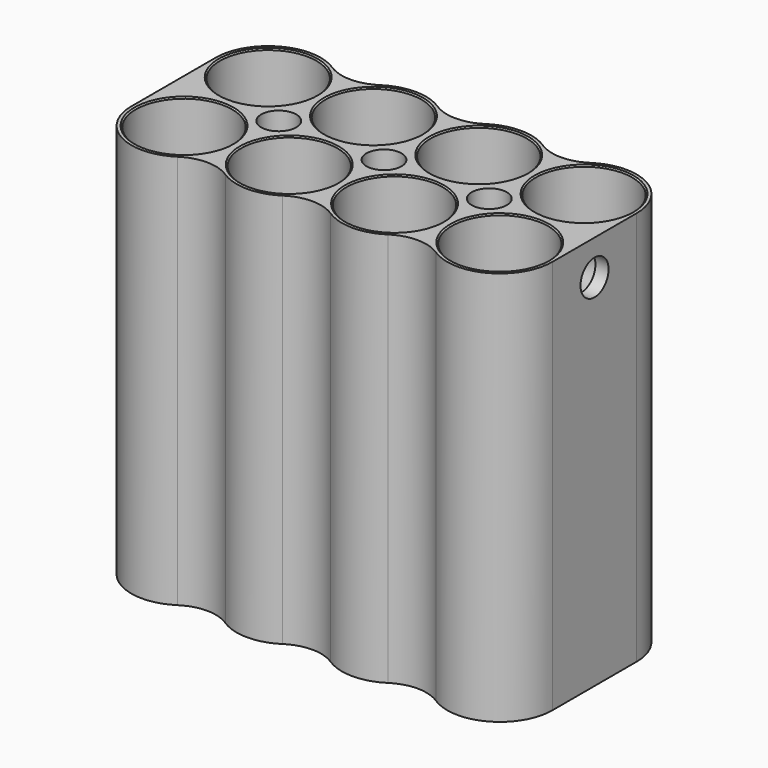
from build123d import *

# Parameters (mm, degrees)
F0_R           = 5.5
F0_R_2         = 2
F1_DEPTH       = 43
F3_SIZE        = 0.15
F2_R           = 2.25
F2_R_2         = 2
F5_DEPTH       = 2
F6_R           = 5
F8_D           = 4
F8_DEPTH       = 1.5
F8_TIP         = 1.2017212381
F8_ON_F4_D     = 4
F8_ON_F4_DEPTH = 1.5
F8_ON_F4_TIP   = 1.2017212381


with BuildPart() as f1:
    # F0 (on Top) → F1 (new body)
    with BuildSketch(Plane.XY):
        with BuildLine():
            ThreePointArc((0, 6), (-6, 12), (-12, 6))
            ThreePointArc((-12, 6), (-18, 12), (-24, 6))
            Line((-24, 6), (-24, -6))
            ThreePointArc((-24, -6), (-18, -12), (-12, -6))
            ThreePointArc((-12, -6), (-6, -12), (0, -6))
            ThreePointArc((0, -6), (6, -12), (12, -6))
            ThreePointArc((12, -6), (18, -12), (24, -6))
            Line((24, -6), (24, 6))
            ThreePointArc((24, 6), (18, 12), (12, 6))
            ThreePointArc((12, 6), (6, 12), (0, 6))
        make_face()
        with Locations((-18, -6)):
            Circle(F0_R, mode=Mode.SUBTRACT)
        with Locations((-6, -6)):
            Circle(F0_R, mode=Mode.SUBTRACT)
        with Locations((6, -6)):
            Circle(F0_R, mode=Mode.SUBTRACT)
        with Locations((18, -6)):
            Circle(F0_R, mode=Mode.SUBTRACT)
        with Locations((-12, 0)):
            Circle(F0_R_2, mode=Mode.SUBTRACT)
        with Locations((-18, 6)):
            Circle(F0_R, mode=Mode.SUBTRACT)
        with Locations((-6, 6)):
            Circle(F0_R, mode=Mode.SUBTRACT)
        Circle(F0_R_2, mode=Mode.SUBTRACT)
        with Locations((12, 0)):
            Circle(F0_R_2, mode=Mode.SUBTRACT)
        with Locations((6, 6)):
            Circle(F0_R, mode=Mode.SUBTRACT)
        with Locations((18, 6)):
            Circle(F0_R, mode=Mode.SUBTRACT)
    extrude(amount=F1_DEPTH)

    # F3
    f3_edges = [f1.edges().sort_by_distance(p)[0] for p in [
        (-23.5, 6, 43),
        (-11.5, 6, 43),
        (0.5, 6, 43),
        (12.5, 6, 43),
        (12.5, -6, 43),
        (0.5, -6, 43),
        (-11.5, -6, 43),
        (-23.5, -6, 43),
    ]]
    chamfer(f3_edges, length=F3_SIZE)

    # F2 (on face) → F5 (join)
    with BuildSketch(Plane(origin=(0, 0, 0), x_dir=(1, 0, 0), z_dir=(0, 0, -1))):
        with BuildLine():
            ThreePointArc((12, 6), (6, 12), (0, 6))
            ThreePointArc((0, 6), (-6, 12), (-12, 6))
            ThreePointArc((-12, 6), (-18, 12), (-24, 6))
            Line((-24, 6), (-24, -6))
            ThreePointArc((-24, -6), (-18, -12), (-12, -6))
            ThreePointArc((-12, -6), (-6, -12), (0, -6))
            ThreePointArc((0, -6), (6, -12), (12, -6))
            ThreePointArc((12, -6), (18, -12), (24, -6))
            Line((24, -6), (24, 6))
            ThreePointArc((24, 6), (18, 12), (12, 6))
        make_face()
        with Locations((-18, -6)):
            Circle(F2_R, mode=Mode.SUBTRACT)
        with Locations((-6, -6)):
            Circle(F2_R, mode=Mode.SUBTRACT)
        with Locations((6, -6)):
            Circle(F2_R, mode=Mode.SUBTRACT)
        with Locations((18, -6)):
            Circle(F2_R, mode=Mode.SUBTRACT)
        with Locations((-12, 0)):
            Circle(F2_R_2, mode=Mode.SUBTRACT)
        with Locations((-18, 6)):
            Circle(F2_R, mode=Mode.SUBTRACT)
        with Locations((-6, 6)):
            Circle(F2_R, mode=Mode.SUBTRACT)
        Circle(F2_R_2, mode=Mode.SUBTRACT)
        with Locations((12, 0)):
            Circle(F2_R_2, mode=Mode.SUBTRACT)
        with Locations((6, 6)):
            Circle(F2_R, mode=Mode.SUBTRACT)
        with Locations((18, 6)):
            Circle(F2_R, mode=Mode.SUBTRACT)
    extrude(amount=F5_DEPTH)

    # F6
    f6_edges = [f1.edges().sort_by_distance(p)[0] for p in [
        (12, -6, 20.5),
        (0, -6, 20.5),
        (-12, -6, 20.5),
        (12, 6, 20.5),
        (0, 6, 20.5),
        (-12, 6, 20.5),
    ]]
    fillet(f6_edges, radius=F6_R)

    # F8
    with Locations(Plane.YZ.offset(24)):
        with Locations((0, 39)):
            Hole(F8_D / 2, depth=F8_DEPTH)
            with Locations((0, 0, -(F8_DEPTH + F8_TIP / 2))):  # 118° drill point
                Cone(0, F8_D / 2, F8_TIP, mode=Mode.SUBTRACT)

    # F8 on F4
    with Locations(Plane(origin=(-24, 0, 0), x_dir=(0, -1, 0), z_dir=(-1, 0, 0))):
        with Locations((0, 39)):
            Hole(F8_ON_F4_D / 2, depth=F8_ON_F4_DEPTH)
            with Locations((0, 0, -(F8_ON_F4_DEPTH + F8_ON_F4_TIP / 2))):  # 118° drill point
                Cone(0, F8_ON_F4_D / 2, F8_ON_F4_TIP, mode=Mode.SUBTRACT)


solid = f1.part
